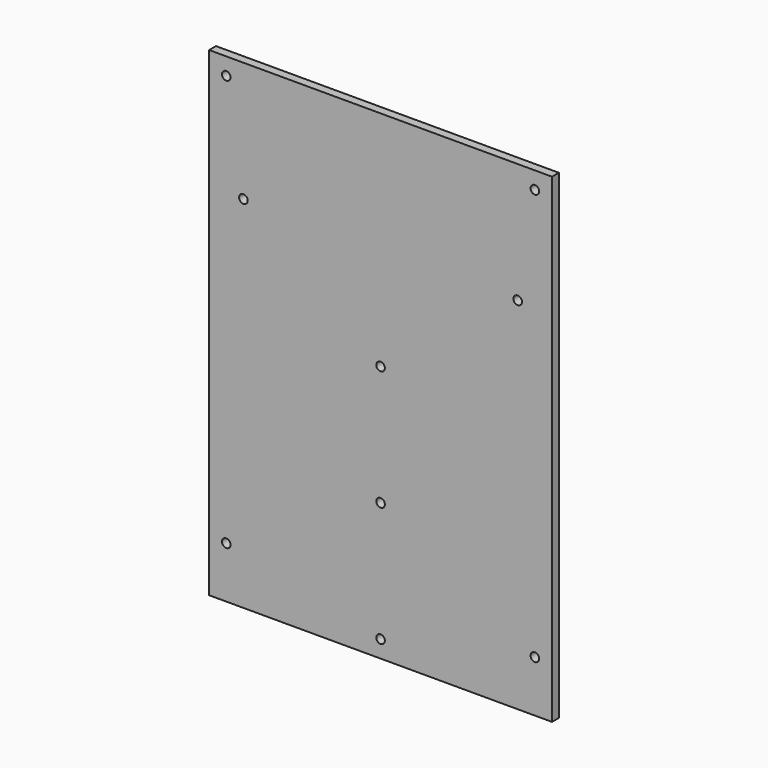
from build123d import *

# Parameters (mm, degrees)
F0_W     = 127
F0_H     = 177.8
F0_R     = 1.5875
F1_DEPTH = 3.175


with BuildPart() as f1:
    # F0 (on Front) → F1 (new body)
    with BuildSketch(Plane.XZ):
        with Locations((-63.5, 88.9)):
            Rectangle(F0_W, F0_H)
        with Locations((-120.65, 19.05)):
            Circle(F0_R, mode=Mode.SUBTRACT)
        with Locations((-63.5, 6.35)):
            Circle(F0_R, mode=Mode.SUBTRACT)
        with Locations((-6.35, 19.05)):
            Circle(F0_R, mode=Mode.SUBTRACT)
        with Locations((-63.5, 50.8)):
            Circle(F0_R, mode=Mode.SUBTRACT)
        with Locations((-114.3, 133.35)):
            Circle(F0_R, mode=Mode.SUBTRACT)
        with Locations((-120.65, 171.45)):
            Circle(F0_R, mode=Mode.SUBTRACT)
        with Locations((-63.5, 95.25)):
            Circle(F0_R, mode=Mode.SUBTRACT)
        with Locations((-12.7, 133.35)):
            Circle(F0_R, mode=Mode.SUBTRACT)
        with Locations((-6.35, 171.45)):
            Circle(F0_R, mode=Mode.SUBTRACT)
    extrude(amount=F1_DEPTH)


solid = f1.part
